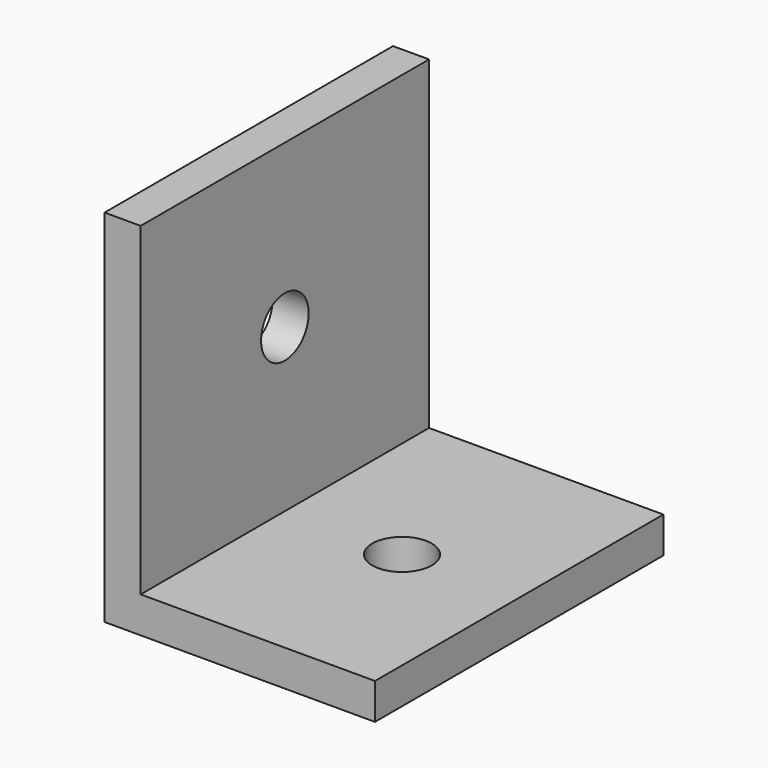
from build123d import *

# Parameters (mm, degrees)
F1_DEPTH   = 10
F4_D       = 3.3
F4_ON_F3_D = 3.3


with BuildPart() as f1:
    # F0 (on Front) → F1 (new body, symmetric)
    with BuildSketch(Plane.XZ):
        Polygon((0, 20), (0, 0), (15, 0), (15, 2), (2, 2), (2, 20), align=None)
    extrude(amount=F1_DEPTH, both=True)

    # F4 (through all)
    with Locations(Plane(origin=(0, 0, 0), x_dir=(0, -1, 0), z_dir=(-1, 0, 0))):
        with Locations((0, 11)):
            Hole(F4_D / 2)

    # F4 on F3 (through all)
    with Locations(Plane.XY.offset(2)):
        with Locations((8.5, 0)):
            Hole(F4_ON_F3_D / 2)


solid = f1.part
